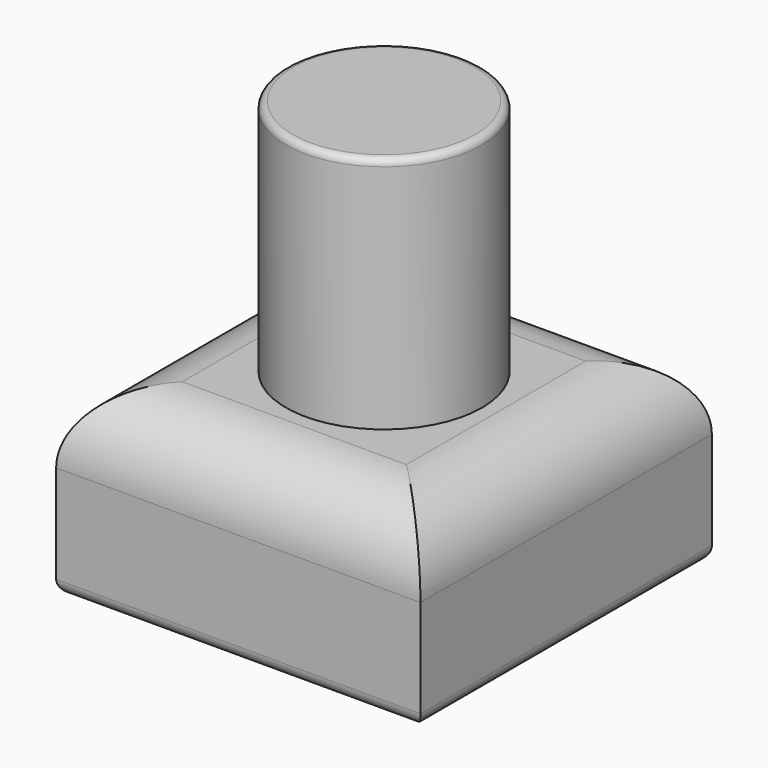
from build123d import *

# Parameters (mm, degrees)
F0_W     = 26
F0_H     = 26
F1_DEPTH = 13
F2_R     = 1
F3_R     = 5
F4_R     = 7
F5_DEPTH = 17
F6_R     = 0.5


with BuildPart() as f1:
    # F0 (on Top) → F1 (new body)
    with BuildSketch(Plane.XY):
        with Locations((-41.661934, 26.971549)):
            Rectangle(F0_W, F0_H)
    extrude(amount=F1_DEPTH)

    # F2
    f2_edges = [f1.edges().sort_by_distance(p)[0] for p in [
        (-28.661934, 26.971549, 0),
        (-41.661934, 39.971549, 0),
        (-54.661934, 26.971549, 0),
        (-41.661934, 13.971549, 0),
    ]]
    fillet(f2_edges, radius=F2_R)

    # F3
    f3_edges = [f1.edges().sort_by_distance(p)[0] for p in [
        (-41.661934, 39.971549, 13),
        (-54.661934, 26.971549, 13),
        (-41.661934, 13.971549, 13),
        (-28.661934, 26.971549, 13),
    ]]
    fillet(f3_edges, radius=F3_R)

    # F4 (on face) → F5 (join)
    with BuildSketch(Plane.XY.offset(13)):
        with Locations((-41.661934, 26.971549)):
            Circle(F4_R)
    extrude(amount=F5_DEPTH)

    # F6
    f6_edges = [f1.edges().sort_by_distance(p)[0] for p in [
        (-48.661934, 26.971549, 30),
    ]]
    fillet(f6_edges, radius=F6_R)


solid = f1.part
